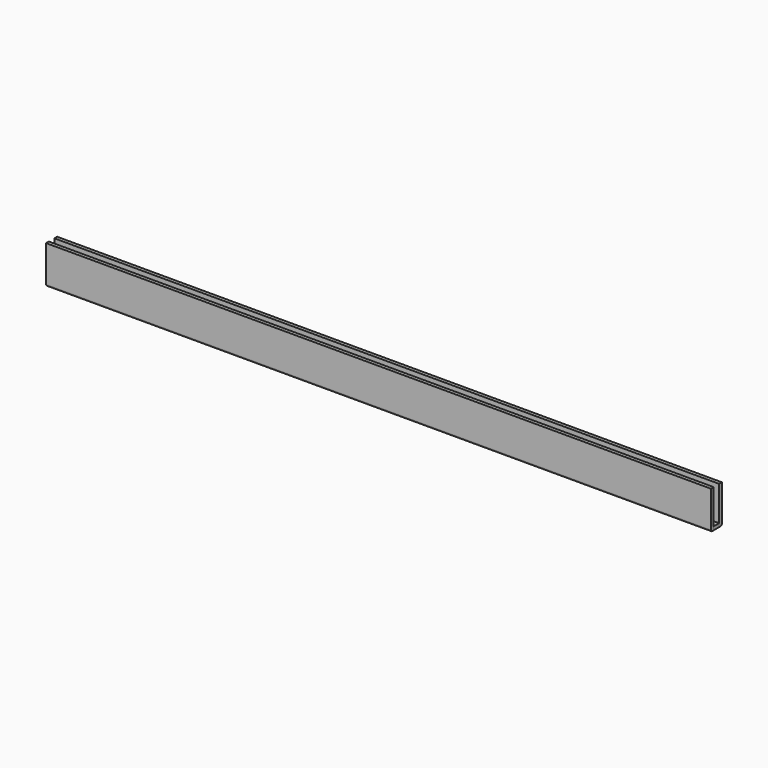
from build123d import *

# Parameters (mm, degrees)
F0_W     = 192
F0_H     = 1
F1_DEPTH = 11
F0_H_2   = 2
F2_DEPTH = 1
F3_R     = 0.5


with BuildPart() as f1:
    # F0 (on Top) → F1 (new body)
    with BuildSketch(Plane.XY):
        with Locations((-1, -10.5)):
            Rectangle(F0_W, F0_H)
        with Locations((-1, -13.5)):
            Rectangle(F0_W, F0_H)
    extrude(amount=F1_DEPTH)

    # F3
    f3_edges = [f1.edges().sort_by_distance(p)[0] for p in [
        (-1, -14, 0),
        (-1, -10, 0),
    ]]
    fillet(f3_edges, radius=F3_R)


with BuildPart() as f2:
    # F0 (on Top) → F2 (new body)
    with BuildSketch(Plane.XY):
        with Locations((-1, -12)):
            Rectangle(F0_W, F0_H_2)
    extrude(amount=F2_DEPTH)


solid = Compound([f1.part, f2.part])
